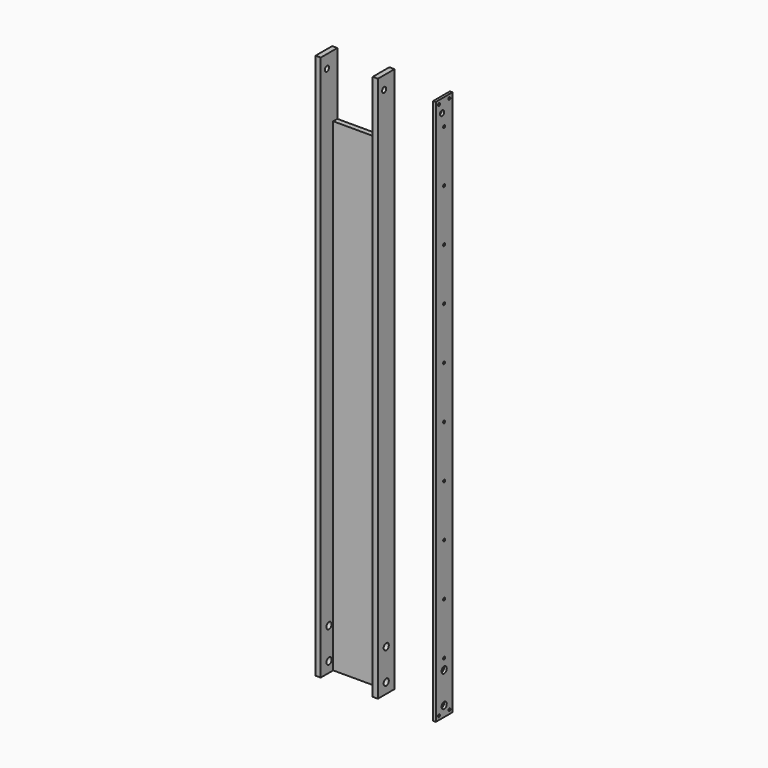
from build123d import *

# Parameters (mm, degrees)
F1_DEPTH  = 666.75
F2_R      = 3.96875
F3_DEPTH  = 76.2
F4_R      = 3.175
F5_DEPTH  = 76.2
F6_W      = 63.5
F6_H      = 76.2
F7_DEPTH  = 6.35
F8_W      = 3.175
F8_H      = 666.75
F9_DEPTH  = 25.4
F10_R     = 3.9751
F11_DEPTH = 25.4
F12_R     = 3.175
F13_DEPTH = 25.4
F14_R     = 1.5875
F15_DEPTH = 25.4
F16_R     = 1.5875
F17_DEPTH = 25.4


with BuildPart() as f1:
    # F0 (on Top) → F1 (new body)
    with BuildSketch(Plane.XY):
        Polygon((-38.1, 2.876934), (-38.1, -22.523066), (-31.75, -22.523066), (-31.75, -3.473066), (31.75, -3.473066), (31.75, -22.523066), (38.1, -22.523066), (38.1, 2.876934), align=None)
    extrude(amount=F1_DEPTH)

    # F2 (on face) → F3 (cut, through all)
    with BuildSketch(Plane.YZ.offset(38.1)):
        with Locations((-9.823066, 12.7)):
            Circle(F2_R)
        with Locations((-9.823066, 50.8)):
            Circle(F2_R)
    extrude(amount=-F3_DEPTH, mode=Mode.SUBTRACT)

    # F4 (on face) → F5 (cut, through all)
    with BuildSketch(Plane.YZ.offset(38.1)):
        with Locations((-12.998066, 650.875)):
            Circle(F4_R)
    extrude(amount=-F5_DEPTH, mode=Mode.SUBTRACT)

    # F6 (on face) → F7 (cut, through all)
    with BuildSketch(Plane(origin=(0, 2.876934, 0), x_dir=(-1, 0, 0), z_dir=(0, 1, 0))):
        with Locations((0, 628.65)):
            Rectangle(F6_W, F6_H)
    extrude(amount=-F7_DEPTH, mode=Mode.SUBTRACT)


with BuildPart() as f9:
    # F8 (on Front) → F9 (new body)
    with BuildSketch(Plane.XZ):
        with Locations((109.575347, 333.375)):
            Rectangle(F8_W, F8_H)
    extrude(amount=F9_DEPTH)

    # F10 (on face) → F11 (cut)
    with BuildSketch(Plane.YZ.offset(111.162847)):
        with Locations((-12.7, 12.7)):
            Circle(F10_R)
        with Locations((-12.7, 50.8)):
            Circle(F10_R)
    extrude(amount=-F11_DEPTH, mode=Mode.SUBTRACT)

    # F12 (on face) → F13 (cut)
    with BuildSketch(Plane.YZ.offset(111.162847)):
        with Locations((-15.875, 650.875)):
            Circle(F12_R)
    extrude(amount=-F13_DEPTH, mode=Mode.SUBTRACT)

    # F14 (on face) → F15 (cut)
    with BuildSketch(Plane.YZ.offset(111.162847)):
        with Locations((-20.6375, 4.7625)):
            Circle(F14_R)
        with Locations((-4.7625, 4.7625)):
            Circle(F14_R)
        with Locations((-4.7625, 661.9875)):
            Circle(F14_R)
        with Locations((-20.6375, 661.9875)):
            Circle(F14_R)
    extrude(amount=-F15_DEPTH, mode=Mode.SUBTRACT)

    # F16 (on face) → F17 (cut)
    with BuildSketch(Plane.YZ.offset(111.162847)):
        with Locations((-12.7, 63.5)):
            Circle(F16_R)
        with Locations((-12.7, 127)):
            Circle(F16_R)
        with Locations((-12.7, 190.5)):
            Circle(F16_R)
        with Locations((-12.7, 254)):
            Circle(F16_R)
        with Locations((-12.7, 317.5)):
            Circle(F16_R)
        with Locations((-12.7, 381)):
            Circle(F16_R)
        with Locations((-12.7, 444.5)):
            Circle(F16_R)
        with Locations((-12.7, 508)):
            Circle(F16_R)
        with Locations((-12.7, 571.5)):
            Circle(F16_R)
        with Locations((-12.7, 635)):
            Circle(F16_R)
    extrude(amount=-F17_DEPTH, mode=Mode.SUBTRACT)


solid = Compound([f1.part, f9.part])
